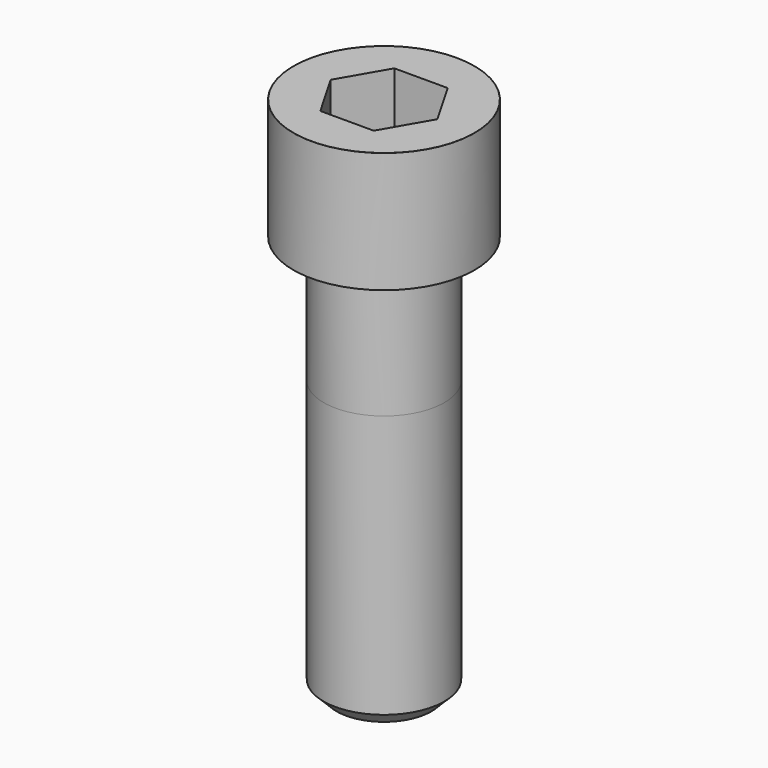
from build123d import *

# Parameters (mm, degrees)
POCKET_DEPTH = 32.15


with BuildPart() as part:
    # Sketch → Revolve (revolve)
    with BuildSketch(Plane.YZ):
        with BuildLine():
            Line((20.999, 0), (31.5, 0))
            Line((31.5, 0), (31.5, 41.97229))
            ThreePointArc((31.5, 41.97229), (31.491884, 41.991884), (31.47229, 42))
            Line((31.47229, 42), (0, 42))
            Line((0, -140), (0, 42))
            Line((16.5, -140), (0, -140))
            Line((21, -135.5), (16.5, -140))
            Line((21, -44), (21, -135.5))
            Line((20.999, 0), (21, -44))
        make_face()
    revolve(axis=Axis((0, 0, 0), (0, 0, 1)))

    # Sketch001 → Pocket (cut)
    with BuildSketch(Plane.XY.offset(42)):
        Polygon((18.561811, 0), (9.280906, 16.075), (-9.280906, 16.075), (-18.561811, 0), (-9.280906, -16.075), (9.280906, -16.075), align=None)
    extrude(amount=-POCKET_DEPTH, mode=Mode.SUBTRACT)


solid = part.part
